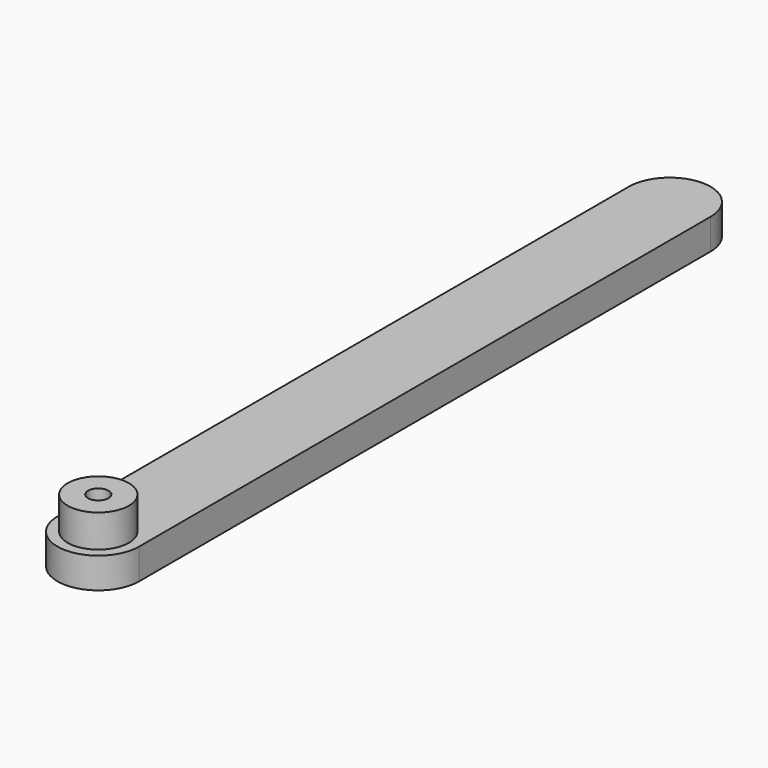
from build123d import *

# Parameters (mm, degrees)
F1_DEPTH = 3.81
F2_R     = 3.81
F3_DEPTH = 4.064
F5_D     = 2.54
F5_DEPTH = 12.7


with BuildPart() as f1:
    # F0 (on Top) → F1 (new body)
    with BuildSketch(Plane.XY):
        with BuildLine():
            Line((0, 93.98), (0, 5.08))
            ThreePointArc((0, 5.08), (5.08, 0), (10.16, 5.08))
            Line((10.16, 5.08), (10.16, 93.98))
            ThreePointArc((10.16, 93.98), (5.08, 99.06), (0, 93.98))
        make_face()
    extrude(amount=F1_DEPTH)

    # F2 (on face) → F3 (join)
    with BuildSketch(Plane.XY.offset(3.81)):
        with Locations((5.08, 5.08)):
            Circle(F2_R)
    extrude(amount=F3_DEPTH)

    # F5
    with Locations(Plane.XY.offset(7.874)):
        with Locations((5.08, 5.08)):
            Hole(F5_D / 2, depth=F5_DEPTH)


solid = f1.part
